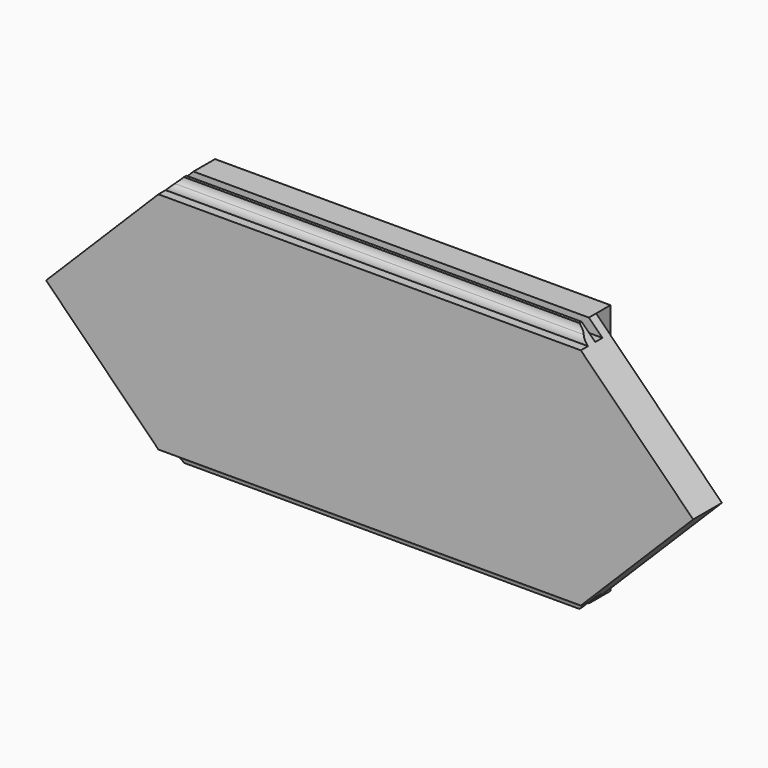
from build123d import *

# Parameters (mm, degrees)
F0_W     = 457.2
F0_H     = 88.9
F1_DEPTH = 38.1
F3_W     = 6.35
F3_H     = 9.525
F4_DEPTH = 457.201
F6_DEPTH = 25.4
F7_W     = 88.9
F7_H     = 12.7
F8_DEPTH = 88.9


with BuildPart() as f1:
    # F0 (on Front) → F1 (new body)
    with BuildSketch(Plane.XZ):
        Rectangle(F0_W, F0_H)
    extrude(amount=-F1_DEPTH)

    # F3 (on face) → F4 (cut, through all)
    with BuildSketch(Plane.YZ.offset(228.6)):
        with BuildLine():
            Line((0, 44.45), (0, 34.925))
            Line((0, 34.925), (6.35, 34.925))
            ThreePointArc((6.35, 34.925), (6.91237, 37.53763), (8.49987, 39.6875))
            ThreePointArc((8.49987, 39.6875), (10.08737, 41.83737), (10.64974, 44.45))
            Line((10.64974, 44.45), (0, 44.45))
        make_face()
        with Locations((15.875, 39.6875)):
            Rectangle(F3_W, F3_H)
    extrude(amount=-F4_DEPTH, mode=Mode.SUBTRACT)

    # F5 (on face) → F6 (cut)
    with BuildSketch(Plane.XZ):
        Polygon((-228.6, 44.45), (-228.6, -44.45), (-139.7, 44.45), align=None)
        Polygon((228.6, -44.45), (228.6, 44.45), (139.7, 44.45), align=None)
    extrude(amount=-F6_DEPTH, mode=Mode.SUBTRACT)

    # F7 (on face) → F8 (cut, through all)
    with BuildSketch(Plane.XY.offset(44.45)):
        with Locations((-184.15, 31.75)):
            Rectangle(F7_W, F7_H)
        with Locations((184.15, 31.75)):
            Rectangle(F7_W, F7_H)
    extrude(amount=-F8_DEPTH, mode=Mode.SUBTRACT)

    # F9: F1 across face


with BuildPart() as f1_1:
    add(f1.part)
    add(f1.part.mirror(Plane(origin=(0, 17.158511, -44.45), x_dir=(1, 0, 0), z_dir=(0, 0, -1))))


solid = f1_1.part
